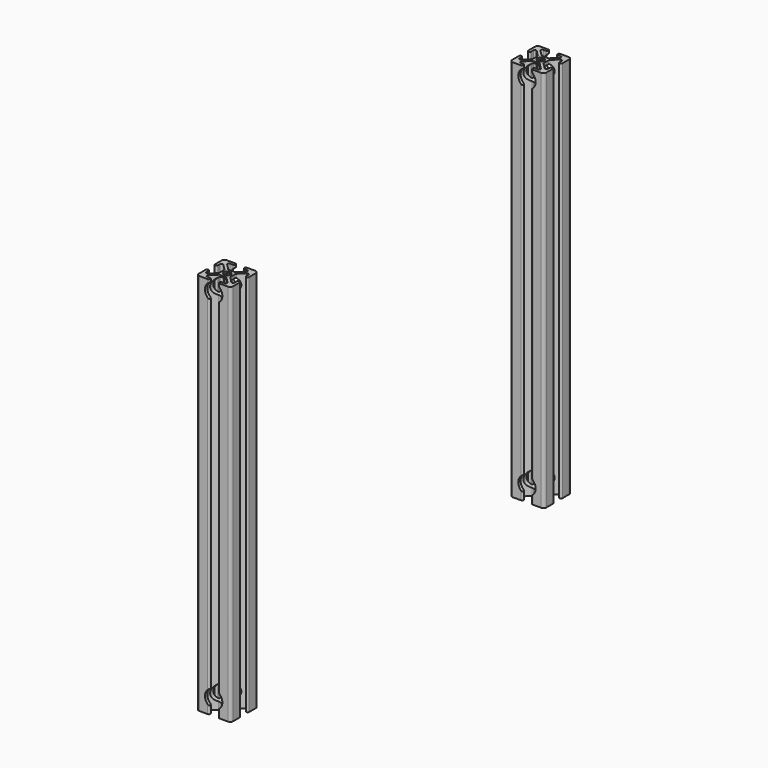
from build123d import *

# Parameters (mm, degrees)
F0_R     = 2.5
F1_DEPTH = 279.4
F3_D     = 12.7
F5_D     = 12.7
F7_D     = 12.7
F9_D     = 12.7


with BuildPart() as f1:
    # F0 (on Top) → F1 (new body)
    with BuildSketch(Plane.XY):
        with BuildLine():
            ThreePointArc((-10.36, 12.5), (-11.873209, 11.873209), (-12.5, 10.36))
            Line((-12.5, 10.36), (-12.5, 4.32))
            ThreePointArc((-12.5, 4.32), (-11.43, 3.25), (-10.36, 4.32))
            Line((-10.36, 4.32), (-10.36, 6.263583))
            ThreePointArc((-10.36, 6.263583), (-9.699471, 7.252134), (-8.533396, 7.020187))
            Line((-8.533396, 7.020187), (-4.363396, 2.850187))
            ThreePointArc((-4.363396, 2.850187), (-4.131449, 2.503054), (-4.05, 2.093583))
            Line((-4.05, 2.093583), (-4.05, 0))
            Line((-4.05, 0), (-4.05, -2.093583))
            ThreePointArc((-4.05, -2.093583), (-4.131449, -2.503054), (-4.363396, -2.850187))
            Line((-4.363396, -2.850187), (-8.533396, -7.020187))
            ThreePointArc((-8.533396, -7.020187), (-9.699471, -7.252134), (-10.36, -6.263583))
            Line((-10.36, -6.263583), (-10.36, -4.32))
            ThreePointArc((-10.36, -4.32), (-11.43, -3.25), (-12.5, -4.32))
            Line((-12.5, -4.32), (-12.5, -10.36))
            ThreePointArc((-12.5, -10.36), (-11.873209, -11.873209), (-10.36, -12.5))
            Line((-10.36, -12.5), (-4.32, -12.5))
            ThreePointArc((-4.32, -12.5), (-3.25, -11.43), (-4.32, -10.36))
            Line((-4.32, -10.36), (-6.263583, -10.36))
            ThreePointArc((-6.263583, -10.36), (-7.252134, -9.699471), (-7.020187, -8.533396))
            Line((-7.020187, -8.533396), (-2.850187, -4.363396))
            ThreePointArc((-2.850187, -4.363396), (-2.503054, -4.131449), (-2.093583, -4.05))
            Line((-2.093583, -4.05), (0, -4.05))
            Line((0, -4.05), (2.093583, -4.05))
            ThreePointArc((2.093583, -4.05), (2.503054, -4.131449), (2.850187, -4.363396))
            Line((2.850187, -4.363396), (7.020187, -8.533396))
            ThreePointArc((7.020187, -8.533396), (7.252134, -9.699471), (6.263583, -10.36))
            Line((6.263583, -10.36), (4.32, -10.36))
            ThreePointArc((4.32, -10.36), (3.25, -11.43), (4.32, -12.5))
            Line((4.32, -12.5), (10.36, -12.5))
            ThreePointArc((10.36, -12.5), (11.873209, -11.873209), (12.5, -10.36))
            Line((12.5, -10.36), (12.5, -4.32))
            ThreePointArc((12.5, -4.32), (11.43, -3.25), (10.36, -4.32))
            Line((10.36, -4.32), (10.36, -6.263583))
            ThreePointArc((10.36, -6.263583), (9.699471, -7.252134), (8.533396, -7.020187))
            Line((8.533396, -7.020187), (4.363396, -2.850187))
            ThreePointArc((4.363396, -2.850187), (4.131449, -2.503054), (4.05, -2.093583))
            Line((4.05, -2.093583), (4.05, 0))
            Line((4.05, 0), (4.05, 2.093583))
            ThreePointArc((4.05, 2.093583), (4.131449, 2.503054), (4.363396, 2.850187))
            Line((4.363396, 2.850187), (8.533396, 7.020187))
            ThreePointArc((8.533396, 7.020187), (9.699471, 7.252134), (10.36, 6.263583))
            Line((10.36, 6.263583), (10.36, 4.32))
            ThreePointArc((10.36, 4.32), (11.43, 3.25), (12.5, 4.32))
            Line((12.5, 4.32), (12.5, 10.36))
            ThreePointArc((12.5, 10.36), (11.873209, 11.873209), (10.36, 12.5))
            Line((10.36, 12.5), (4.32, 12.5))
            ThreePointArc((4.32, 12.5), (3.25, 11.43), (4.32, 10.36))
            Line((4.32, 10.36), (6.263583, 10.36))
            ThreePointArc((6.263583, 10.36), (7.252134, 9.699471), (7.020187, 8.533396))
            Line((7.020187, 8.533396), (2.850187, 4.363396))
            ThreePointArc((2.850187, 4.363396), (2.503054, 4.131449), (2.093583, 4.05))
            Line((2.093583, 4.05), (0, 4.05))
            Line((0, 4.05), (-2.093583, 4.05))
            ThreePointArc((-2.093583, 4.05), (-2.503054, 4.131449), (-2.850187, 4.363396))
            Line((-2.850187, 4.363396), (-7.020187, 8.533396))
            ThreePointArc((-7.020187, 8.533396), (-7.252134, 9.699471), (-6.263583, 10.36))
            Line((-6.263583, 10.36), (-4.32, 10.36))
            ThreePointArc((-4.32, 10.36), (-3.25, 11.43), (-4.32, 12.5))
            Line((-4.32, 12.5), (-10.36, 12.5))
        make_face()
        Circle(F0_R, mode=Mode.SUBTRACT)
    extrude(amount=F1_DEPTH)

    # F3 (through all)
    with Locations(Plane(origin=(0, 4.05, 0), x_dir=(-1, 0, 0), z_dir=(0, 1, 0))):
        with Locations((0, 272.056967)):
            Hole(F3_D / 2)

    # F5 (through all)
    with Locations(Plane.XZ.offset(4.05)):
        with Locations((0, 272.056967)):
            Hole(F5_D / 2)

    # F7 (through all)
    with Locations(Plane(origin=(0, 4.05, 0), x_dir=(-1, 0, 0), z_dir=(0, 1, 0))):
        with Locations((0, 10.948961)):
            Hole(F7_D / 2)

    # F9 (through all)
    with Locations(Plane.XZ.offset(4.05)):
        with Locations((0, 10.948961)):
            Hole(F9_D / 2)


with BuildPart() as f10_1:
    # F10: copy of F1
    add(f1.part.moved(Location((127, 127, 127))))


solid = Compound([f1.part, f10_1.part])
